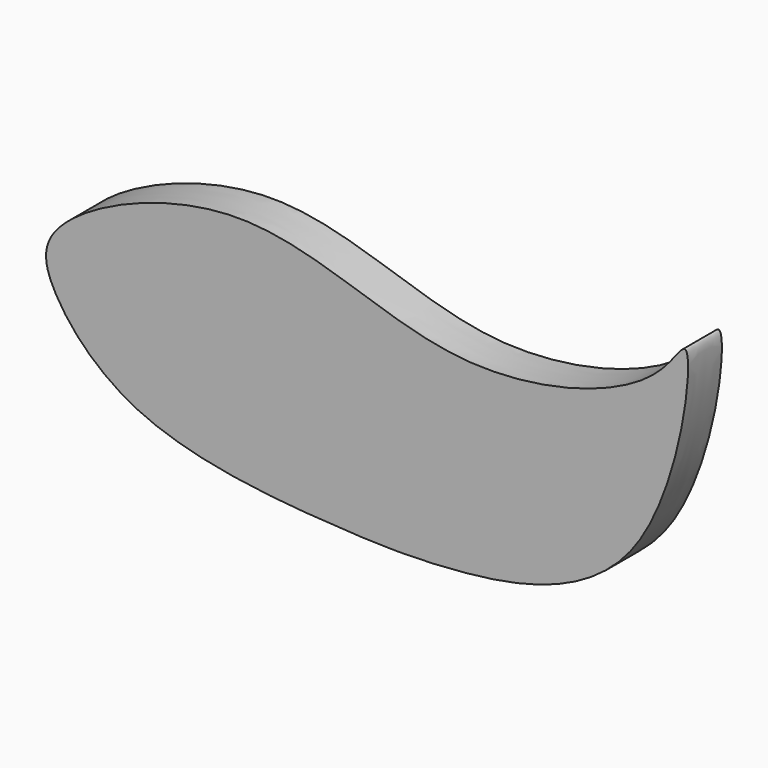
from build123d import *

# Parameters (mm, degrees)
F1_DEPTH = 1.778


with BuildPart() as f1:
    # F0 (on Front) → F1 (new body)
    with BuildSketch(Plane.XZ):
        with BuildLine():
            add(Edge.make_bspline(
                [(-43.9673997462, 22.7838009596), (-42.9440481741, 24.1904383192), (-35.593566879, 27.5501168317), (-27.5679313627, 22.320976217), (-18.6953331188, 24.8241656459), (-16.8636609725, 28.8701289537), (-18.2140820845, 16.9120736527), (-27.3927947916, 15.5904533004), (-31.8632645647, 15.7074989359), (-40.5666447386, 16.3970521866), (-44.1658211291, 20.3893179089), (-44.4891821719, 22.0665903023), (-43.9673997462, 22.7838009596)],
                knots=[0, 0, 0, 0, 0.1157693021, 0.241542832, 0.3593722938, 0.4124358999, 0.5282052309, 0.6448039059, 0.7340458301, 0.8509558752, 0.9409720091, 1, 1, 1, 1], degree=3))
        make_face()
    extrude(amount=-F1_DEPTH)


solid = f1.part
